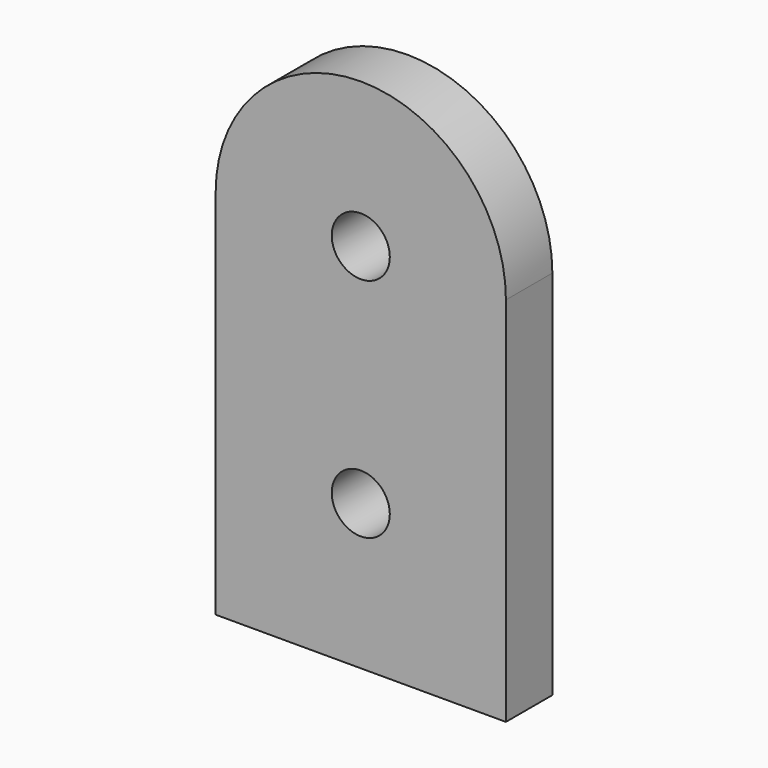
from build123d import *

# Parameters (mm, degrees)
F0_R     = 1
F1_DEPTH = 2


with BuildPart() as f1:
    # F0 (on Front) → F1 (new body)
    with BuildSketch(Plane.XZ):
        with BuildLine():
            Line((0, 12.8), (0, 0))
            Line((0, 0), (10, 0))
            Line((10, 0), (10, 12.8))
            ThreePointArc((10, 12.8), (5, 17.8), (0, 12.8))
        make_face()
        with Locations((5, 5)):
            Circle(F0_R, mode=Mode.SUBTRACT)
        with Locations((5, 12.8)):
            Circle(F0_R, mode=Mode.SUBTRACT)
    extrude(amount=F1_DEPTH)


solid = f1.part
